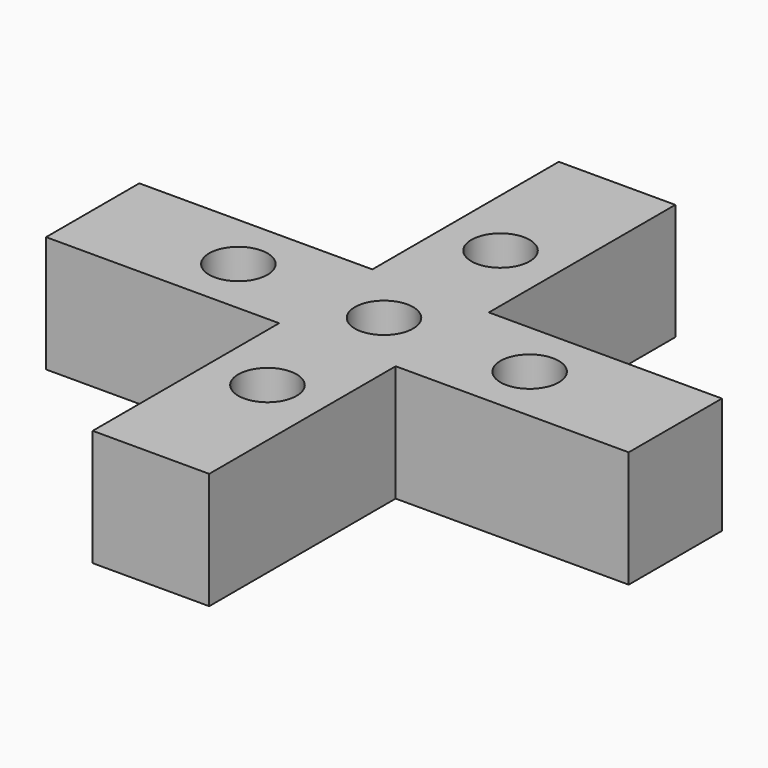
from build123d import *

# Parameters (mm, degrees)
F0_W     = 50.8
F0_H     = 12.7
F0_W_2   = 12.7
F0_H_2   = 50.8
F1_DEPTH = 25.4
F2_D     = 12.7


with BuildPart() as f1:
    # F0 (on Top) → F1 (new body)
    with BuildSketch(Plane.XY):
        with Locations((38.1, -6.35)):
            Rectangle(F0_W, F0_H)
        with Locations((6.35, -38.1)):
            Rectangle(F0_W_2, F0_H_2)
        with Locations((6.35, -6.35)):
            Rectangle(F0_W_2, F0_H)
        with Locations((38.1, 6.35)):
            Rectangle(F0_W, F0_H)
        with Locations((-6.35, -38.1)):
            Rectangle(F0_W_2, F0_H_2)
        with Locations((-6.35, -6.35)):
            Rectangle(F0_W_2, F0_H)
        with Locations((6.35, 6.35)):
            Rectangle(F0_W_2, F0_H)
        with Locations((-38.1, -6.35)):
            Rectangle(F0_W, F0_H)
        with Locations((-6.35, 6.35)):
            Rectangle(F0_W_2, F0_H)
        with Locations((6.35, 38.1)):
            Rectangle(F0_W_2, F0_H_2)
        with Locations((-38.1, 6.35)):
            Rectangle(F0_W, F0_H)
        with Locations((-6.35, 38.1)):
            Rectangle(F0_W_2, F0_H_2)
        with Locations((6.35, 6.35)):
            Rectangle(F0_W_2, F0_H)
        with Locations((-6.35, 6.35)):
            Rectangle(F0_W_2, F0_H)
    extrude(amount=F1_DEPTH)

    # F2 (through all)
    with Locations(Plane(origin=(0, 0, 0), x_dir=(1, 0, 0), z_dir=(0, 0, -1))):
        with Locations((31.75, 0), (0, -31.75), (-31.75, 0), (0, 0), (0, 31.75)):
            Hole(F2_D / 2)


solid = f1.part
